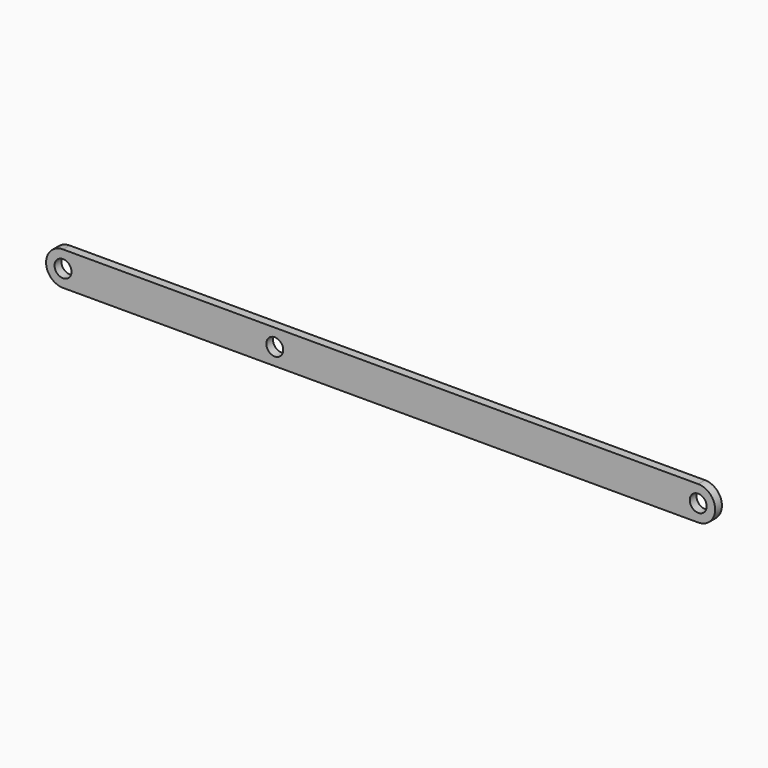
from build123d import *

# Parameters (mm, degrees)
F1_DEPTH = 12.7
F2_R     = 25.4
F3_DEPTH = 25.401


with BuildPart() as f1:
    # F0 (on Front) → F1 (new body, symmetric)
    with BuildSketch(Plane.XZ):
        with BuildLine():
            Line((952.5, 50.8), (-952.5, 50.8))
            ThreePointArc((-952.5, 50.8), (-1003.3, 0), (-952.5, -50.8))
            Line((-952.5, -50.8), (952.5, -50.8))
            ThreePointArc((952.5, -50.8), (1003.3, 0), (952.5, 50.8))
        make_face()
    extrude(amount=F1_DEPTH, both=True)

    # F2 (on face) → F3 (cut, through all)
    with BuildSketch(Plane.XZ.offset(12.7)):
        with Locations((-952.5, 0)):
            Circle(F2_R)
        with Locations((952.5, 0)):
            Circle(F2_R)
        with Locations((-317.5, 0)):
            Circle(F2_R)
    extrude(amount=-F3_DEPTH, mode=Mode.SUBTRACT)


solid = f1.part
